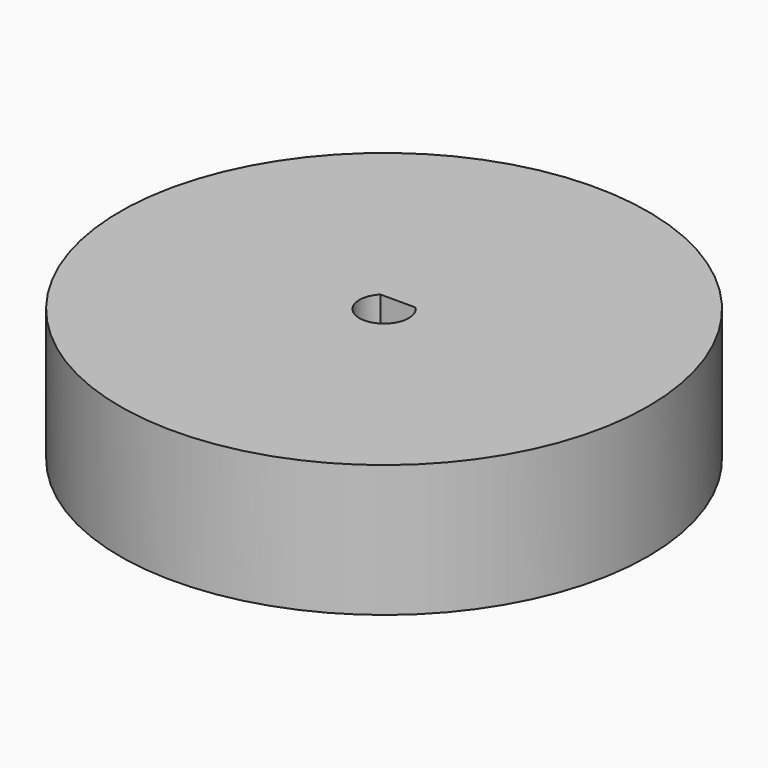
from build123d import *

# Parameters (mm, degrees)
F0_R     = 50.8
F1_DEPTH = 25.4
F2_W     = 19.05
F2_H     = 95.25
F3_DEPTH = 12.7
F5_DEPTH = 25.4


with BuildPart() as f1:
    # F0 (on Top) → F1 (new body)
    with BuildSketch(Plane.XY):
        Circle(F0_R)
    extrude(amount=F1_DEPTH)

    # F2 (on face) → F3 (cut)
    with BuildSketch(Plane(origin=(0, 0, 0), x_dir=(1, 0, 0), z_dir=(0, 0, -1))):
        Rectangle(F2_W, F2_H)
    extrude(amount=-F3_DEPTH, mode=Mode.SUBTRACT)

    # F4 (on face) → F5 (cut)
    with BuildSketch(Plane.XY.offset(25.4)):
        with BuildLine():
            Line((3.387666, 3.347405), (-3.387666, 3.347405))
            ThreePointArc((-3.387666, 3.347405), (0, -4.7625), (3.387666, 3.347405))
        make_face()
    extrude(amount=-F5_DEPTH, mode=Mode.SUBTRACT)


solid = f1.part
